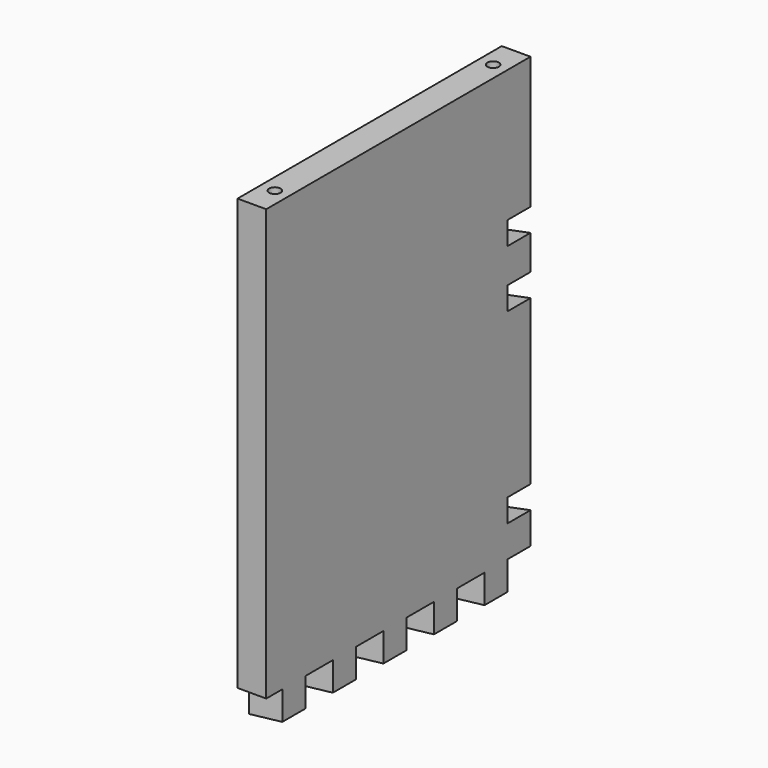
from build123d import *

# Parameters (mm, degrees)
F0_W     = 115
F0_H     = 160
F1_DEPTH = 10
F3_DEPTH = 10
F5_DEPTH = 10
F6_R     = 2
F7_DEPTH = 10


with BuildPart() as f1:
    # F0 (on Right) → F1 (new body)
    with BuildSketch(Plane.YZ):
        with Locations((26.09914, 11.5937)):
            Rectangle(F0_W, F0_H)
    extrude(amount=F1_DEPTH)

    # F2 (on face) → F3 (cut)
    with BuildSketch(Plane(origin=(0, 83.59914, 0), x_dir=(-1, 0, 0), z_dir=(0, 1, 0))):
        Polygon((0, 27.5937), (-10, 25.5937), (-10, 17.5937), (0, 15.5937), align=None)
        Polygon((0, 47.5937), (-10, 45.5937), (-10, 37.5937), (0, 35.5937), align=None)
        Polygon((0, -37.4063), (-10, -39.4063), (-10, -47.4063), (0, -49.4063), align=None)
    extrude(amount=-F3_DEPTH, mode=Mode.SUBTRACT)

    # F4 (on face) → F5 (cut)
    with BuildSketch(Plane(origin=(0, 0, -68.4063), x_dir=(1, 0, 0), z_dir=(0, 0, -1))):
        Polygon((0, -83.59914), (10, -85.59914), (10, -73.59914), (0, -75.59914), align=None)
        Polygon((10, -51.59914), (0, -53.59914), (0, -61.59914), (10, -63.59914), align=None)
        Polygon((10, -29.59914), (0, -31.59914), (0, -39.59914), (10, -41.59914), align=None)
        Polygon((10, -7.59914), (0, -9.59914), (0, -17.59914), (10, -19.59914), align=None)
        Polygon((10, 14.40086), (0, 12.40086), (0, 4.40086), (10, 2.40086), align=None)
        Polygon((10, 36.40086), (0, 34.40086), (0, 26.40086), (10, 24.40086), align=None)
    extrude(amount=-F5_DEPTH, mode=Mode.SUBTRACT)

    # F6 (on face) → F7 (cut)
    with BuildSketch(Plane.XY.offset(91.5937)):
        with Locations((5, 73.59914)):
            Circle(F6_R)
        with Locations((5, -21.40086)):
            Circle(F6_R)
    extrude(amount=-F7_DEPTH, mode=Mode.SUBTRACT)


solid = f1.part
